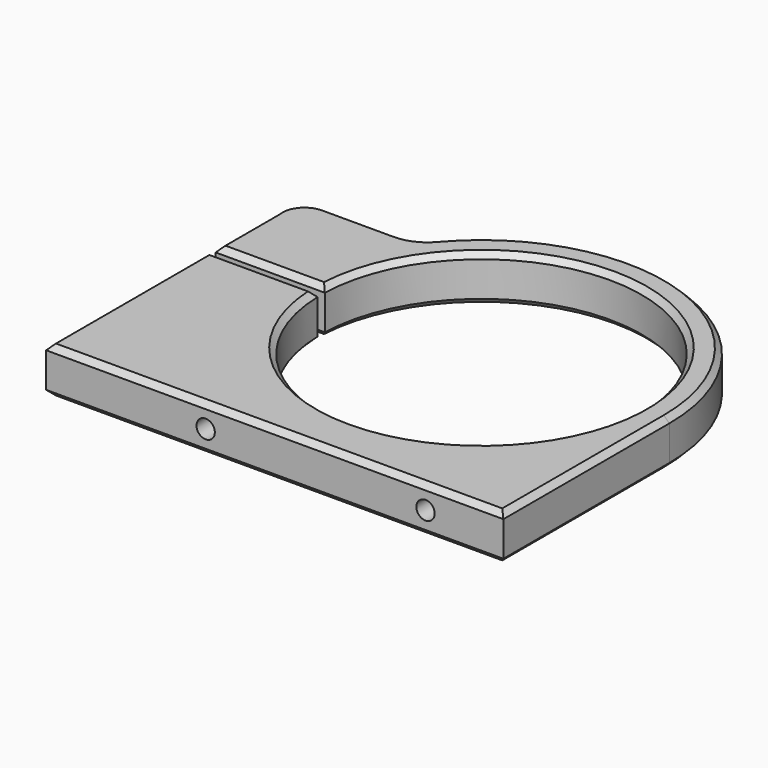
from build123d import *

# Parameters (mm, degrees)
F1_DEPTH = 15.875
F2_R     = 3.175
F3_DEPTH = 50.8
F4_R     = 3.175
F5_DEPTH = 25.4
F6_SIZE  = 1.905


with BuildPart() as f1:
    # F0 (on Top) → F1 (new body)
    with BuildSketch(Plane.XY):
        with BuildLine():
            ThreePointArc((-55.540178, 1.5748), (55.562499, 0.012705), (-55.539452, -1.6002))
            Line((-55.539452, -1.6002), (-93.413361, -1.6002))
            Line((-93.413361, -1.6002), (-93.413361, -71.873484))
            Line((-93.413361, -71.873484), (65.0875, -71.873484))
            Line((65.0875, -71.873484), (65.0875, 0))
            ThreePointArc((65.0875, 0), (22.536226, 61.061454), (-49.481386, 42.284454))
            ThreePointArc((-49.481386, 42.284454), (-53.820886, 39.000936), (-59.136291, 37.835079))
            Line((-59.136291, 37.835079), (-83.994267, 37.835079))
            ThreePointArc((-83.994267, 37.835079), (-90.208527, 35.528708), (-93.413361, 29.726516))
            Line((-93.413361, 29.726516), (-93.413361, 26.893643))
            Line((-93.413361, 26.893643), (-93.413361, 1.5748))
            Line((-93.413361, 1.5748), (-55.540178, 1.5748))
        make_face()
        with BuildLine():
            ThreePointArc((-93.413361, 29.726516), (-93.519267, 28.310079), (-93.413361, 26.893643))
            Line((-93.413361, 26.893643), (-93.413361, 29.726516))
        make_face()
    extrude(amount=F1_DEPTH)

    # F2 (on face) → F3 (cut)
    with BuildSketch(Plane(origin=(0, 37.835079, 0), x_dir=(-1, 0, 0), z_dir=(0, 1, 0))):
        with Locations((76.069467, 7.9502)):
            Circle(F2_R)
    extrude(amount=-F3_DEPTH, mode=Mode.SUBTRACT)

    # F4 (on face) → F5 (cut)
    with BuildSketch(Plane.XZ.offset(71.873484)):
        with Locations((-38.1, 7.9375)):
            Circle(F4_R)
        with Locations((38.1, 7.9375)):
            Circle(F4_R)
    extrude(amount=-F5_DEPTH, mode=Mode.SUBTRACT)

    # F6
    f6_edges = [f1.edges().sort_by_distance(p)[0] for p in [
        (55.562499, 0.012705, 15.875),
        (-74.476406, -1.6002, 15.875),
        (-93.413361, -36.736842, 15.875),
        (-14.16293, -71.873484, 15.875),
        (65.0875, -35.936742, 15.875),
        (22.536226, 61.061454, 15.875),
        (-53.820886, 39.000936, 15.875),
        (-71.565279, 37.835079, 15.875),
        (-91.212895, 34.52434, 15.875),
        (-93.413361, 14.234221, 15.875),
        (-74.476769, 1.5748, 15.875),
        (55.562499, 0.012705, 0),
        (-74.476406, -1.6002, 0),
        (-93.413361, -36.736842, 0),
        (-14.16293, -71.873484, 0),
        (65.0875, -35.936742, 0),
        (22.536226, 61.061454, 0),
        (-53.820886, 39.000936, 0),
        (-71.565279, 37.835079, 0),
        (-91.212895, 34.52434, 0),
        (-93.413361, 14.234221, 0),
        (-74.476769, 1.5748, 0),
    ]]
    chamfer(f6_edges, length=F6_SIZE)


solid = f1.part
